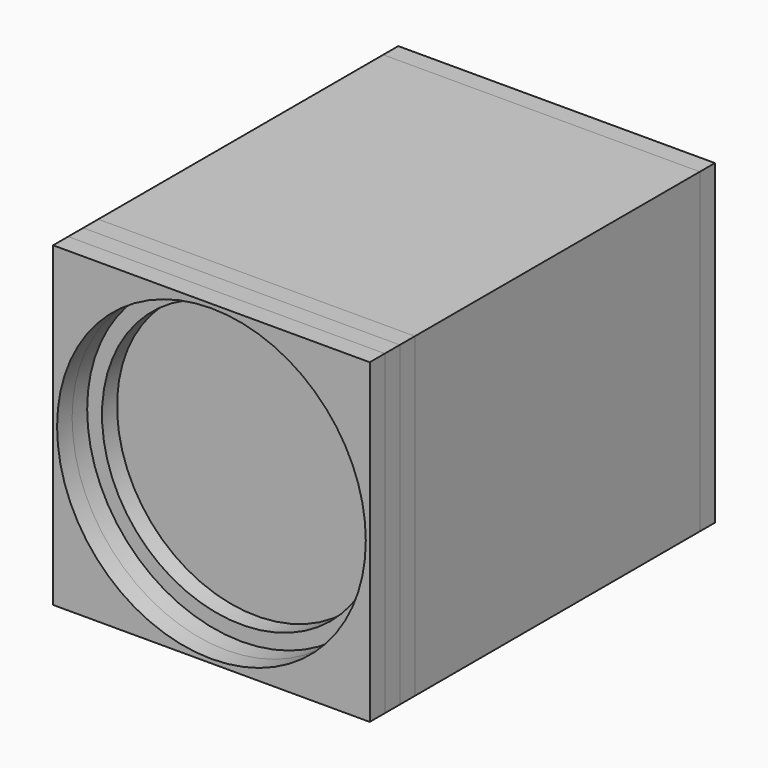
from build123d import *

# Parameters (mm, degrees)
F0_W     = 320
F0_H     = 320
F1_DEPTH = 360
F2_W     = 320
F2_H     = 320
F3_DEPTH = 19
F6_R     = 156
F7_DEPTH = 19
F8_R     = 141
F9_DEPTH = 19


with BuildPart() as f1:
    # F0 (on Front) → F1 (new body)
    with BuildSketch(Plane.XZ):
        with Locations((160, 160)):
            Rectangle(F0_W, F0_H)
    extrude(amount=-F1_DEPTH)


with BuildPart() as f3:
    # F2 (on Front) → F3 (new body)
    with BuildSketch(Plane.XZ):
        with Locations((160, 160)):
            Rectangle(F2_W, F2_H)
    extrude(amount=F3_DEPTH)


with BuildPart() as f4_1:
    # F4: copy of F3
    add(f3.part.moved(Location((0, -19, 0))))

    # F6 (on face) → F7 (cut, through all)
    with BuildSketch(Plane.XZ.offset(38)):
        with Locations((160, 160)):
            Circle(F6_R)
    extrude(amount=-F7_DEPTH, mode=Mode.SUBTRACT)


with BuildPart() as f5_1:
    # F5: copy of F3
    add(f3.part.moved(Location((0, 379, 0))))


with BuildPart() as f3_1:
    add(f3.part)

    # F8 (on face) → F9 (cut, through all)
    with BuildSketch(Plane.XZ.offset(19)):
        with Locations((160, 160)):
            Circle(F8_R)
    extrude(amount=-F9_DEPTH, mode=Mode.SUBTRACT)


with BuildPart() as f10_1:
    # F10: copy of F4_1
    add(f4_1.part.moved(Location((0, -19, 0))))


solid = Compound([f1.part, f4_1.part, f5_1.part, f3_1.part, f10_1.part])
